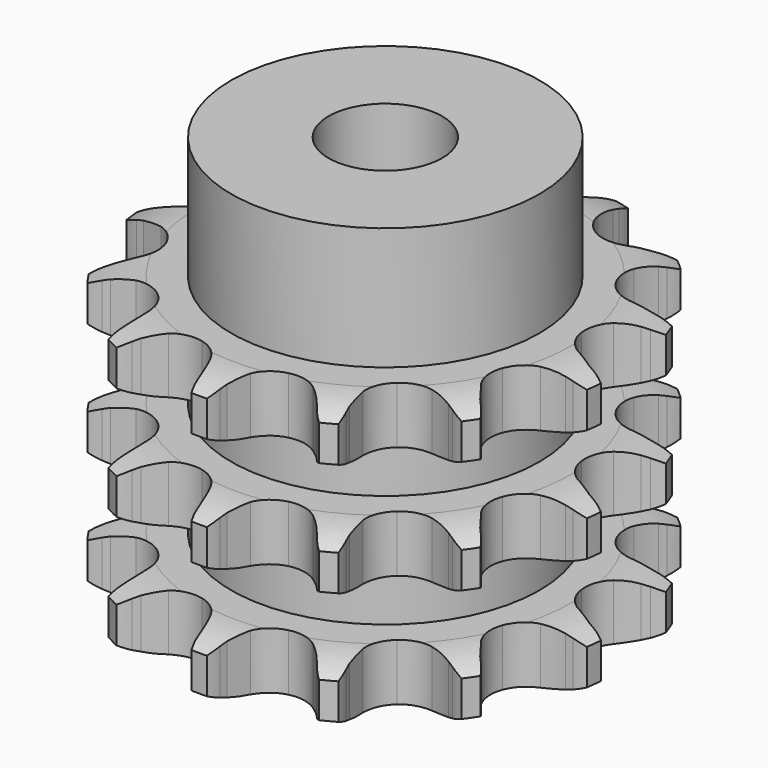
from build123d import *

# Parameters (mm, degrees)
PAD_DEPTH         = 34.9
SKETCH001_R       = 19
PAD001_DEPTH      = 50
SKETCH002_R       = 7
POCKET_DEPTH      = 0.0010001
POCKET_DEPTH_BACK = 50.001


with BuildPart() as part:
    # Sprocket → Pad (new body)
    with BuildSketch(Plane.XY):
        with BuildLine():
            ThreePointArc((-7.2372479546, 29.362669189), (-6.040670143, 28.2066768924), (-5.1440004444, 26.8052133358))
            Line((-5.1440004444, 26.8052133358), (-4.7587726449, 26.0126805335))
            ThreePointArc((-4.7587726449, 26.0126805335), (-4.1078425073, 24.8549229214), (-3.3235445203, 23.7830136901))
            ThreePointArc((-3.3235445203, 23.7830136901), (-1.8364474105, 22.6299825233), (0, 22.2196173273))
            ThreePointArc((0, 22.2196173273), (1.8364474105, 22.6299825233), (3.3235445203, 23.7830136901))
            ThreePointArc((3.3235445203, 23.7830136901), (4.1078425073, 24.8549229214), (4.7587726449, 26.0126805335))
            Line((4.7587726449, 26.0126805335), (5.1440004444, 26.8052133358))
            ThreePointArc((5.1440004444, 26.8052133358), (6.040670143, 28.2066768924), (7.2372479546, 29.362669189))
            ThreePointArc((7.2372479546, 29.362669189), (7.7595485811, 27.7830114082), (7.9022175793, 26.1253738706))
            Line((7.9022175793, 26.1253738706), (7.8750114977, 25.2445966403))
            ThreePointArc((7.8750114977, 25.2445966403), (7.9133447205, 23.9169508681), (8.1096650408, 22.603340932))
            ThreePointArc((8.1096650408, 22.603340932), (8.8905838361, 20.8912940516), (10.3259710459, 19.6744940501))
            ThreePointArc((10.3259710459, 19.6744940501), (12.1427706869, 19.1844147198), (13.9953700849, 19.5142846282))
            Line((13.9953700849, 19.5142846282), (16.302379324, 20.8215728032))
            ThreePointArc((16.302379324, 20.8215728032), (16.6519058018, 21.0899654904), (17.0117899582, 21.3443014636))
            ThreePointArc((17.0117899582, 21.3443014636), (18.4570441354, 22.1685326279), (20.0537775757, 22.6360355363))
            ThreePointArc((20.0537775757, 22.6360355363), (19.782148238, 20.9945928319), (19.1381327876, 19.4605260966))
            Line((19.1381327876, 19.4605260966), (18.7047254104, 18.6932798872))
            ThreePointArc((18.7047254104, 18.6932798872), (18.1216800388, 17.4998936015), (17.6850480731, 16.2455151662))
            ThreePointArc((17.6850480731, 16.2455151662), (17.580889469, 14.36666188), (18.2863865667, 12.6221812895))
            ThreePointArc((18.2863865667, 12.6221812895), (19.6673315353, 11.3439287013), (21.4610250255, 10.7750681306))
            Line((21.4610250255, 10.7750681306), (24.111307365, 10.8604936708))
            ThreePointArc((24.111307365, 10.8604936708), (24.5455259918, 10.9357105395), (24.9823834068, 10.9936673528))
            ThreePointArc((24.9823834068, 10.9936673528), (26.6451317478, 11.0518446981), (28.2762284285, 10.7237589361))
            ThreePointArc((28.2762284285, 10.7237589361), (27.2728961343, 9.3965660501), (25.9897324137, 8.3375063185))
            Line((25.9897324137, 8.3375063185), (25.2494121479, 7.8595579904))
            ThreePointArc((25.2494121479, 7.8595579904), (24.1785568503, 7.0738216073), (23.2089997198, 6.1660376554))
            ThreePointArc((23.2089997198, 6.1660376554), (22.2436251973, 4.5508006088), (22.0576112998, 2.6782789092))
            ThreePointArc((22.0576112998, 2.6782789092), (22.6863437459, 0.9046853264), (24.0102177661, -0.4325866221))
            Line((24.0102177661, -0.4325866221), (26.3966254614, -1.5885936784))
            ThreePointArc((26.3966254614, -1.5885936784), (26.8160619828, -1.7237839064), (27.2298138873, -1.8754834605))
            ThreePointArc((27.2298138873, -1.8754834605), (28.7291407855, -2.5966876628), (30.0209361137, -3.6452016011))
            ThreePointArc((30.0209361137, -3.6452016011), (28.5157522003, -4.3541007728), (26.8873975541, -4.6955356792))
            Line((26.8873975541, -4.6955356792), (26.0097628508, -4.774693924))
            ThreePointArc((26.0097628508, -4.774693924), (24.6964176705, -4.9727776683), (23.4160492295, -5.3260047733))
            ThreePointArc((23.4160492295, -5.3260047733), (21.8106144576, -6.3075942388), (20.7757031072, -7.8791848925))
            ThreePointArc((20.7757031072, -7.8791848925), (20.5081880045, -9.7418105541), (21.058958971, -11.5411409929))
            Line((21.058958971, -11.5411409929), (22.6347947784, -13.6737533605))
            ThreePointArc((22.6347947784, -13.6737533605), (22.943361342, -13.9883802332), (23.2392221611, -14.314983615))
            ThreePointArc((23.2392221611, -14.314983615), (24.2316498928, -15.6503501737), (24.8882091268, -17.1790903809))
            ThreePointArc((24.8882091268, -17.1790903809), (23.2259930892, -17.1072955814), (21.6254839432, -16.6528870402))
            Line((21.6254839432, -16.6528870402), (20.8115903361, -16.3151210018))
            ThreePointArc((20.8115903361, -16.3151210018), (19.5566268265, -15.8801735086), (18.2587640546, -15.5979236939))
            ThreePointArc((18.2587640546, -15.5979236939), (16.381054792, -15.7209952611), (14.7343317071, -16.6316223897))
            ThreePointArc((14.7343317071, -16.6316223897), (13.6318535416, -18.1565750382), (13.2833464637, -20.005759048))
            Line((13.2833464637, -20.005759048), (13.6876053905, -22.6264209343))
            ThreePointArc((13.6876053905, -22.6264209343), (13.8146131153, -23.0484072268), (13.9248047007, -23.4750935375))
            ThreePointArc((13.9248047007, -23.4750935375), (14.1829800328, -25.1187060669), (14.0538933644, -26.777456585))
            ThreePointArc((14.0538933644, -26.777456585), (12.615438865, -25.9414151374), (11.4094325761, -24.7952626693))
            Line((11.4094325761, -24.7952626693), (10.8457332823, -24.1179504766))
            ThreePointArc((10.8457332823, -24.1179504766), (9.9366484594, -23.1496129749), (8.9186160769, -22.2965462715))
            ThreePointArc((8.9186160769, -22.2965462715), (7.1987928867, -21.5329057276), (5.3175024809, -21.5739556302))
            ThreePointArc((5.3175024809, -21.5739556302), (3.632625714, -22.4118869915), (2.4646793632, -23.8872988008))
            Line((2.4646793632, -23.8872988008), (1.6047505612, -26.39564815))
            ThreePointArc((1.6047505612, -26.39564815), (1.521103508, -26.8283218882), (1.4203822955, -27.2573424362))
            ThreePointArc((1.4203822955, -27.2573424362), (0.8851603707, -28.8326691135), (0, -30.2414301887))
            ThreePointArc((0, -30.2414301887), (-0.8851603707, -28.8326691135), (-1.4203822955, -27.2573424362))
            Line((-1.4203822955, -27.2573424362), (-1.6047505612, -26.39564815))
            ThreePointArc((-1.6047505612, -26.39564815), (-1.9596963201, -25.1157550917), (-2.4646793632, -23.8872988008))
            ThreePointArc((-2.4646793632, -23.8872988008), (-3.632625714, -22.4118869915), (-5.3175024809, -21.5739556302))
            ThreePointArc((-5.3175024809, -21.5739556302), (-7.1987928867, -21.5329057276), (-8.9186160769, -22.2965462715))
            Line((-8.9186160769, -22.2965462715), (-10.8457332823, -24.1179504766))
            ThreePointArc((-10.8457332823, -24.1179504766), (-11.1208725817, -24.4621913213), (-11.4094325761, -24.7952626693))
            ThreePointArc((-11.4094325761, -24.7952626693), (-12.615438865, -25.9414151374), (-14.0538933644, -26.777456585))
            ThreePointArc((-14.0538933644, -26.777456585), (-14.1829800328, -25.1187060669), (-13.9248047007, -23.4750935375))
            Line((-13.9248047007, -23.4750935375), (-13.6876053905, -22.6264209343))
            ThreePointArc((-13.6876053905, -22.6264209343), (-13.4070982895, -21.3281803947), (-13.2833464637, -20.005759048))
            ThreePointArc((-13.2833464637, -20.005759048), (-13.6318535416, -18.1565750382), (-14.7343317071, -16.6316223897))
            ThreePointArc((-14.7343317071, -16.6316223897), (-16.381054792, -15.7209952611), (-18.2587640546, -15.5979236939))
            Line((-18.2587640546, -15.5979236939), (-20.8115903361, -16.3151210018))
            ThreePointArc((-20.8115903361, -16.3151210018), (-21.2151907839, -16.4920675241), (-21.6254839432, -16.6528870402))
            ThreePointArc((-21.6254839432, -16.6528870402), (-23.2259930892, -17.1072955814), (-24.8882091268, -17.1790903809))
            ThreePointArc((-24.8882091268, -17.1790903809), (-24.2316498928, -15.6503501737), (-23.2392221611, -14.314983615))
            Line((-23.2392221611, -14.314983615), (-22.6347947784, -13.6737533605))
            ThreePointArc((-22.6347947784, -13.6737533605), (-21.7830956139, -12.6545766017), (-21.058958971, -11.5411409929))
            ThreePointArc((-21.058958971, -11.5411409929), (-20.5081880045, -9.7418105541), (-20.7757031072, -7.8791848925))
            ThreePointArc((-20.7757031072, -7.8791848925), (-21.8106144576, -6.3075942388), (-23.4160492295, -5.3260047733))
            Line((-23.4160492295, -5.3260047733), (-26.0097628508, -4.774693924))
            ThreePointArc((-26.0097628508, -4.774693924), (-26.4493644484, -4.7438098081), (-26.8873975541, -4.6955356792))
            ThreePointArc((-26.8873975541, -4.6955356792), (-28.5157522003, -4.3541007728), (-30.0209361137, -3.6452016011))
            ThreePointArc((-30.0209361137, -3.6452016011), (-28.7291407855, -2.5966876628), (-27.2298138873, -1.8754834605))
            Line((-27.2298138873, -1.8754834605), (-26.3966254614, -1.5885936784))
            ThreePointArc((-26.3966254614, -1.5885936784), (-25.1688482479, -1.0819618134), (-24.0102177661, -0.4325866221))
            ThreePointArc((-24.0102177661, -0.4325866221), (-22.6863437459, 0.9046853264), (-22.0576112998, 2.6782789092))
            ThreePointArc((-22.0576112998, 2.6782789092), (-22.2436251973, 4.5508006088), (-23.2089997198, 6.1660376554))
            Line((-23.2089997198, 6.1660376554), (-25.2494121479, 7.8595579904))
            ThreePointArc((-25.2494121479, 7.8595579904), (-25.6243074671, 8.0911975659), (-25.9897324137, 8.3375063185))
            ThreePointArc((-25.9897324137, 8.3375063185), (-27.2728961343, 9.3965660501), (-28.2762284285, 10.7237589361))
            ThreePointArc((-28.2762284285, 10.7237589361), (-26.6451317478, 11.0518446981), (-24.9823834068, 10.9936673528))
            Line((-24.9823834068, 10.9936673528), (-24.111307365, 10.8604936708))
            ThreePointArc((-24.111307365, 10.8604936708), (-22.7887210658, 10.7385173873), (-21.4610250255, 10.7750681306))
            ThreePointArc((-21.4610250255, 10.7750681306), (-19.6673315353, 11.3439287013), (-18.2863865667, 12.6221812895))
            ThreePointArc((-18.2863865667, 12.6221812895), (-17.580889469, 14.36666188), (-17.6850480731, 16.2455151662))
            Line((-17.6850480731, 16.2455151662), (-18.7047254104, 18.6932798872))
            ThreePointArc((-18.7047254104, 18.6932798872), (-18.9290304515, 19.072609087), (-19.1381327876, 19.4605260966))
            ThreePointArc((-19.1381327876, 19.4605260966), (-19.782148238, 20.9945928319), (-20.0537775757, 22.6360355363))
            ThreePointArc((-20.0537775757, 22.6360355363), (-18.4570441354, 22.1685326279), (-17.0117899582, 21.3443014636))
            Line((-17.0117899582, 21.3443014636), (-16.302379324, 20.8215728032))
            ThreePointArc((-16.302379324, 20.8215728032), (-15.1879725214, 20.0989316677), (-13.9953700849, 19.5142846282))
            ThreePointArc((-13.9953700849, 19.5142846282), (-12.1427706869, 19.1844147198), (-10.3259710459, 19.6744940501))
            ThreePointArc((-10.3259710459, 19.6744940501), (-8.8905838361, 20.8912940516), (-8.1096650408, 22.603340932))
            Line((-8.1096650408, 22.603340932), (-7.8750114977, 25.2445966403))
            ThreePointArc((-7.8750114977, 25.2445966403), (-7.897340679, 25.6847157161), (-7.9022175793, 26.1253738706))
            ThreePointArc((-7.9022175793, 26.1253738706), (-7.7595485811, 27.7830114082), (-7.2372479546, 29.362669189))
        make_face()
    extrude(amount=PAD_DEPTH)

    # Sketch → Groove (revolve, cut)
    with BuildSketch(Plane.XZ):
        with BuildLine():
            ThreePointArc((23.0334313734, 0), (25.9403197441, 0.3291673517), (28.7, 1.3))
            Line((28.7, 1.3), (28.7, 5.7))
            ThreePointArc((28.7, 5.7), (25.9403197441, 6.6708326483), (23.0334313734, 7))
            Line((19, 7), (23.0334313734, 7))
            Line((19, 7), (19, 13.95))
            Line((19, 13.95), (23.0334313734, 13.95))
            ThreePointArc((23.0334313734, 13.95), (25.9403197441, 14.2791673517), (28.7, 15.25))
            Line((28.7, 19.65), (28.7, 15.25))
            ThreePointArc((28.7, 19.65), (25.9403197441, 20.6208326483), (23.0334313734, 20.95))
            Line((19, 20.95), (23.0334313734, 20.95))
            Line((19, 27.9), (19, 20.95))
            Line((23.0334313734, 27.9), (19, 27.9))
            ThreePointArc((23.0334313734, 27.9), (25.9403197441, 28.2291673517), (28.7, 29.2))
            Line((28.7, 29.2), (28.7, 33.6))
            ThreePointArc((28.7, 33.6), (25.9403197441, 34.5708326483), (23.0334313734, 34.9))
            Line((23.0334313734, 34.9), (38.7, 34.9))
            Line((38.7, 34.9), (38.7, 0))
            Line((23.0334313734, 0), (38.7, 0))
        make_face()
    revolve(axis=Axis((0, 0, 0), (0, 0, 1)), mode=Mode.SUBTRACT)

    # Sketch001 → Pad001 (join)
    with BuildSketch(Plane.XY):
        Circle(SKETCH001_R)
    extrude(amount=PAD001_DEPTH)

    # Sketch002 → Pocket (cut, two sides)
    with BuildSketch(Plane.XY) as pocket_sk:
        Circle(SKETCH002_R)
    extrude(amount=-POCKET_DEPTH, mode=Mode.SUBTRACT)
    extrude(pocket_sk.sketch, amount=POCKET_DEPTH_BACK, mode=Mode.SUBTRACT)


solid = part.part
